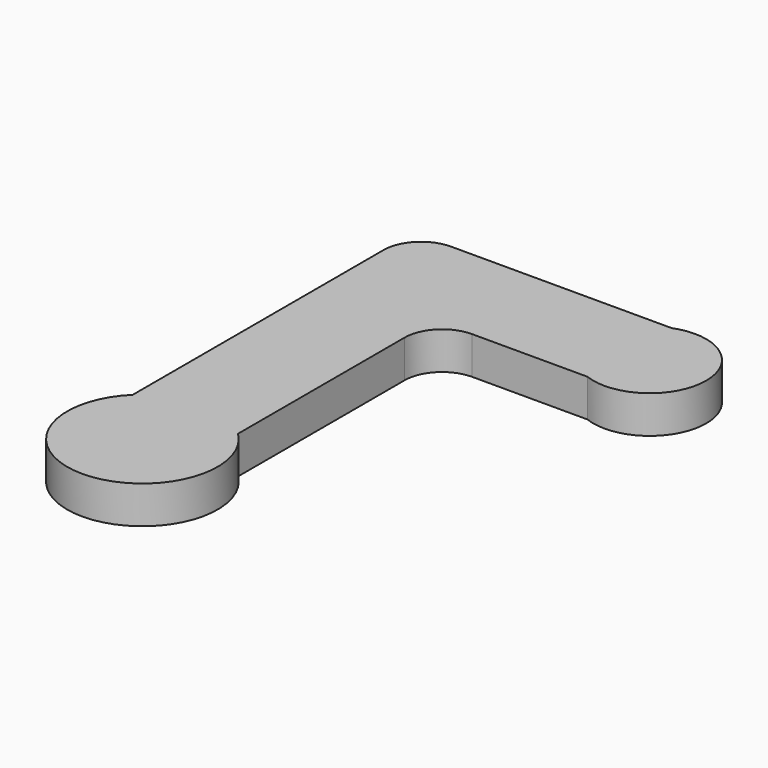
from build123d import *

# Parameters (mm, degrees)
F1_DEPTH = 6.35


with BuildPart() as f1:
    # F0 (on Top) → F1 (new body)
    with BuildSketch(Plane.XY):
        with BuildLine():
            ThreePointArc((0, 12.7), (-4.801349, 11.757425), (-8.89, 9.069614))
            ThreePointArc((-8.89, 9.069614), (0, -12.7), (8.89, 9.069614))
            ThreePointArc((8.89, 9.069614), (4.801349, 11.757425), (0, 12.7))
        make_face()
        with BuildLine():
            Line((-8.89, 61.97625), (-8.89, 9.069614))
            ThreePointArc((-8.89, 9.069614), (-4.801349, 11.757425), (0, 12.7))
            ThreePointArc((0, 12.7), (4.801349, 11.757425), (8.89, 9.069614))
            Line((8.89, 9.069614), (8.89, 44.19625))
            ThreePointArc((8.89, 44.19625), (10.749872, 48.686378), (15.24, 50.54625))
            Line((15.24, 50.54625), (34.68042, 50.54625))
            ThreePointArc((34.68042, 50.54625), (47.625, 59.43625), (34.68042, 68.32625))
            Line((34.68042, 68.32625), (-2.54, 68.32625))
            ThreePointArc((-2.54, 68.32625), (-7.030128, 66.466378), (-8.89, 61.97625))
        make_face()
    extrude(amount=F1_DEPTH)


solid = f1.part
